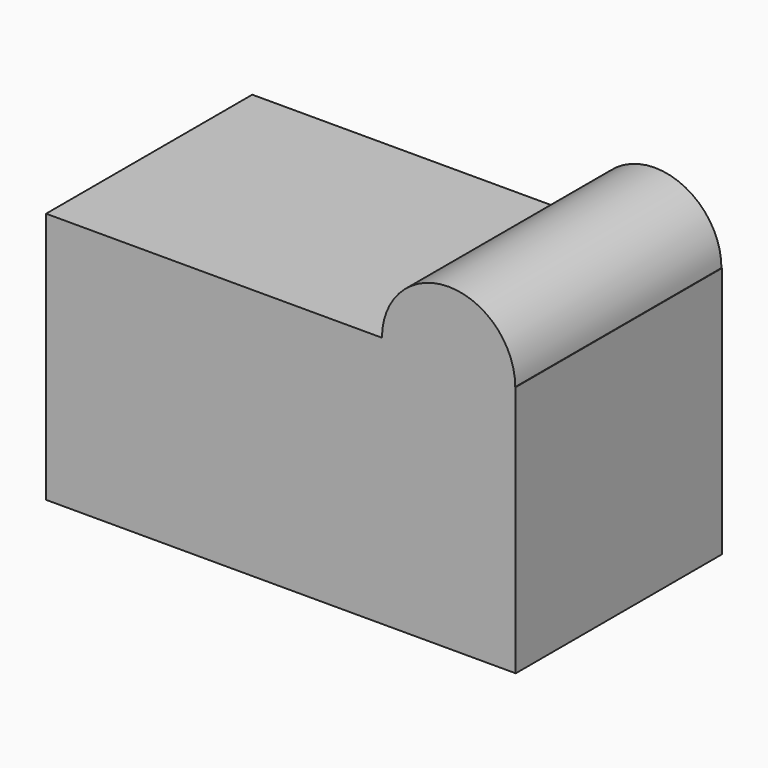
from build123d import *

# Parameters (mm, degrees)
F0_R      = 8.547489
F1_DEPTH  = 76.2
F1_FACE_W = 76.2
F1_FACE_H = 74.485234
F2_DEPTH  = 99.161685


with BuildPart() as f1:
    # F0 (on Front) → F1 (new body)
    with BuildSketch(Plane.XZ):
        with BuildLine():
            Line((-19.700978, 37.242617), (-19.842371, 37.242617))
            Line((-19.842371, 37.242617), (-19.842371, -37.242617))
            Line((-19.842371, -37.242617), (19.842371, -37.242617))
            Line((19.842371, -37.242617), (19.842371, 37.242617))
            Line((19.842371, 37.242617), (19.700978, 37.242617))
            ThreePointArc((19.700978, 37.242617), (0, 56.943595), (-19.700978, 37.242617))
        make_face()
        with Locations((0, 37.242617)):
            Circle(F0_R, mode=Mode.SUBTRACT)
        with Locations((0, 37.242617)):
            Circle(F0_R)
    extrude(amount=F1_DEPTH)

    # F1_face (on face) → F2 (join)
    with BuildSketch(Plane(origin=(-19.842371, -38.1, 0), x_dir=(0, -1, 0), z_dir=(-1, 0, 0))):
        Rectangle(F1_FACE_W, F1_FACE_H)
    extrude(amount=F2_DEPTH)


solid = f1.part
